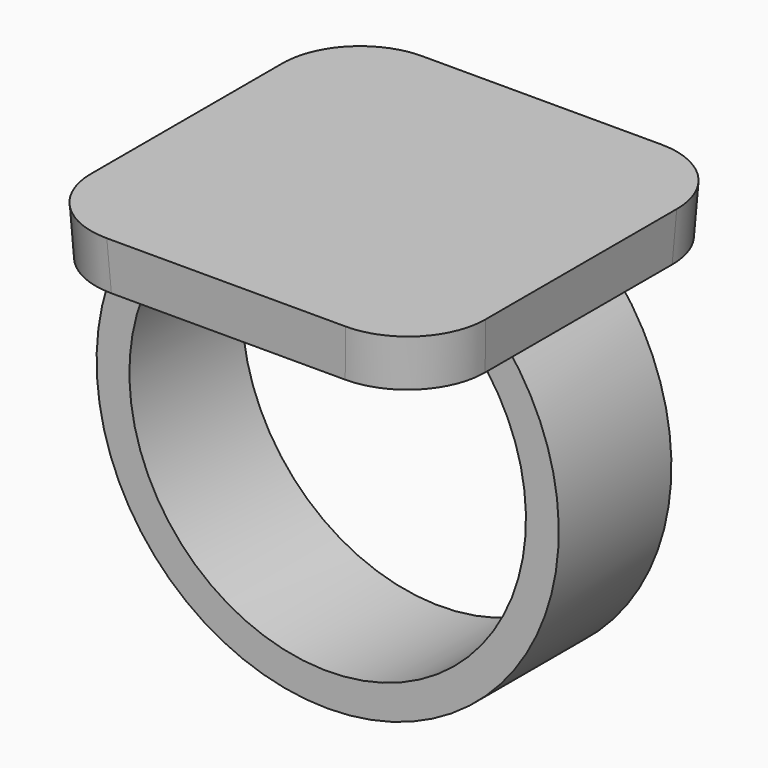
from build123d import *

# Parameters (mm, degrees)
F0_W          = 25.4
F0_H          = 25.4
F1_DEPTH      = 3.175
F1_TAPER      = -3
F3_W          = 2.9493607581
F3_H          = 9.1879377142
F6_DEPTH      = 4.5939688571
F6_DEPTH_BACK = 4.5939688571
F7_R          = 5.08


with BuildPart() as f1:
    # F0 (on Top) → F1 (new body)
    with BuildSketch(Plane.XY):
        Rectangle(F0_W, F0_H)
    extrude(amount=F1_DEPTH, taper=F1_TAPER)

    # F4: sweep along a path in F2
    with BuildLine(Plane.XZ) as f4_path:
        ThreePointArc((-10.16, 0), (0, -23.5582897328), (10.16, 0))
    # F3 (on face) → F4 (sweep)
    with BuildSketch(Plane.XY):
        with Locations((10.1631330326, 0)):
            Rectangle(F3_W, F3_H)
    sweep(path=f4_path.line)

    # F5 (on Front) → F6 (join, two sides)
    with BuildSketch(Plane.XZ) as f6_sk:
        with BuildLine():
            Line((-10.16, 0), (-10.0748691618, -1.4690828204))
            ThreePointArc((-10.0748691618, -1.4690828204), (-9.4103726, -0.7074453448), (-8.6884526536, 0))
            Line((-8.6884526536, 0), (-10.16, 0))
        make_face()
    extrude(amount=F6_DEPTH)
    extrude(f6_sk.sketch, amount=-F6_DEPTH_BACK)

    # F7
    f7_edges = [f1.edges().sort_by_distance(p)[0] for p in [
        (-12.783197, 12.783197, 1.5875),
        (-12.783197, -12.783197, 1.5875),
        (12.783197, -12.783197, 1.5875),
        (12.783197, 12.783197, 1.5875),
    ]]
    fillet(f7_edges, radius=F7_R)


solid = f1.part
